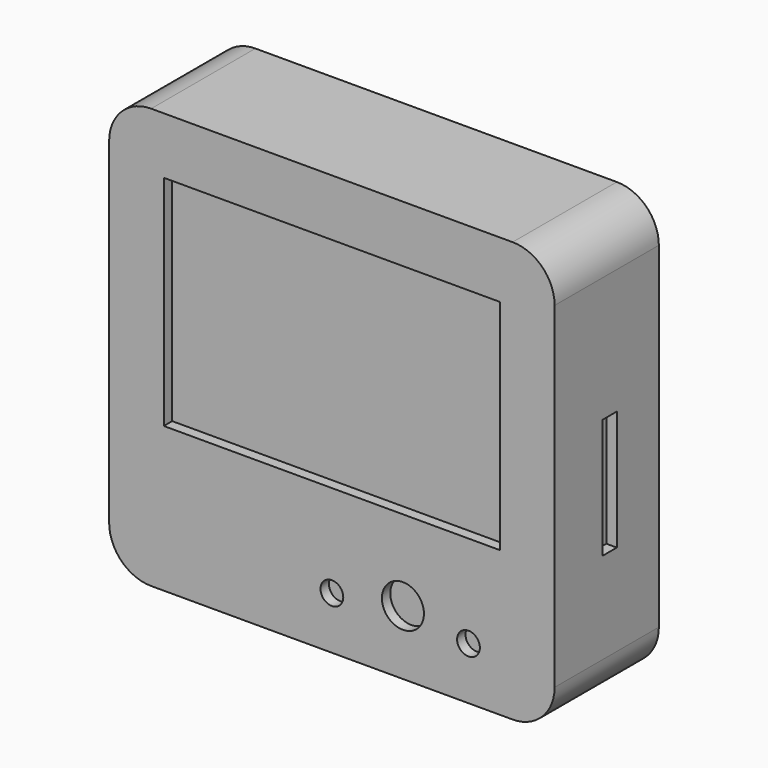
from build123d import *

# Parameters (mm, degrees)
F0_W     = 106
F0_H     = 100
F0_R     = 2.706104
F0_R_2   = 5
F0_W_2   = 80
F0_H_2   = 52
F1_DEPTH = 31
F2_R     = 10
F3_DEPTH = 2.5
F4_W     = 48
F4_H     = 15
F5_DEPTH = 2.5
F6_W     = 4.25
F6_H     = 28.5
F7_DEPTH = 2.5


with BuildPart() as f1:
    # F0 (on Front) → F1 (new body)
    with BuildSketch(Plane.XZ):
        Rectangle(F0_W, F0_H)
        with Locations((0, -37.5)):
            Circle(F0_R, mode=Mode.SUBTRACT)
        with Locations((16.9, -34.7)):
            Circle(F0_R_2, mode=Mode.SUBTRACT)
        with Locations((32.5, -37.5)):
            Circle(F0_R, mode=Mode.SUBTRACT)
        with Locations((0, 10.5)):
            Rectangle(F0_W_2, F0_H_2, mode=Mode.SUBTRACT)
        with Locations((0, 10.5)):
            Rectangle(F0_W_2, F0_H_2)
        with Locations((0, -37.5)):
            Circle(F0_R)
        with Locations((16.9, -34.7)):
            Circle(F0_R_2)
        with Locations((32.5, -37.5)):
            Circle(F0_R)
    extrude(amount=-F1_DEPTH)

    # F2
    f2_edges = [f1.edges().sort_by_distance(p)[0] for p in [
        (53, 15.5, -50),
        (53, 15.5, 50),
        (-53, 15.5, 50),
        (-53, 15.5, -50),
    ]]
    fillet(f2_edges, radius=F2_R)

    # F0 (on Front) → F3 (cut)
    with BuildSketch(Plane.XZ):
        with Locations((0, 10.5)):
            Rectangle(F0_W_2, F0_H_2)
        with Locations((0, -37.5)):
            Circle(F0_R)
        with Locations((16.9, -34.7)):
            Circle(F0_R_2)
        with Locations((32.5, -37.5)):
            Circle(F0_R)
    extrude(amount=-F3_DEPTH, mode=Mode.SUBTRACT)

    # F4 (on face) → F5 (cut)
    with BuildSketch(Plane(origin=(0, 31, 0), x_dir=(-1, 0, 0), z_dir=(0, 1, 0))):
        with Locations((19, 10)):
            Rectangle(F4_W, F4_H)
    extrude(amount=-F5_DEPTH, mode=Mode.SUBTRACT)

    # F6 (on face) → F7 (cut)
    with BuildSketch(Plane.YZ.offset(53)):
        with Locations((16.375, -4)):
            Rectangle(F6_W, F6_H)
    extrude(amount=-F7_DEPTH, mode=Mode.SUBTRACT)


solid = f1.part
